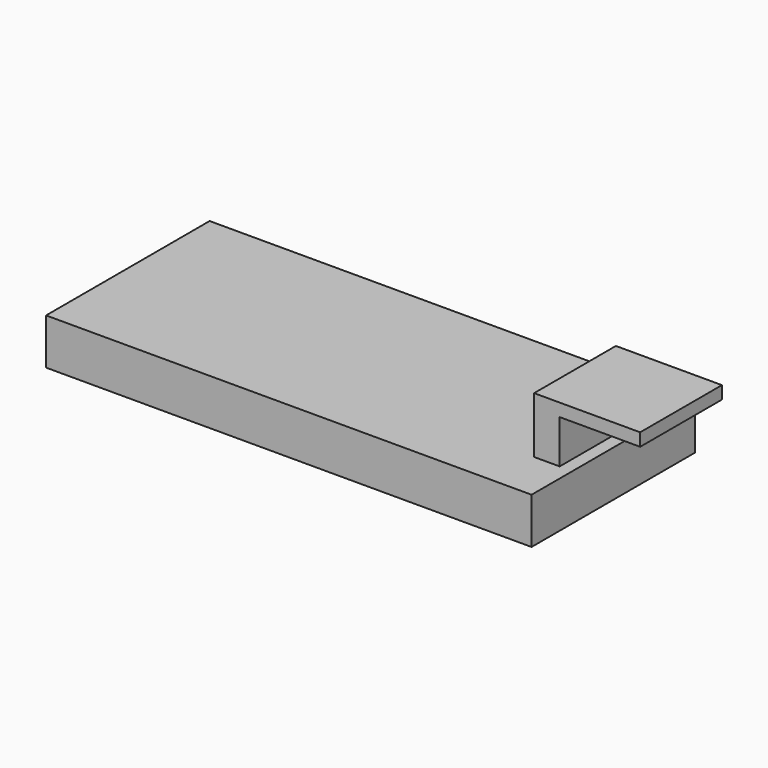
from build123d import *

# Parameters (mm, degrees)
F0_W     = 38
F0_H     = 16
F1_DEPTH = 3.6
F4_DEPTH = 3.4
F7_DEPTH = 1


with BuildPart() as f1:
    # F0 (on Top) → F1 (new body)
    with BuildSketch(Plane.XY):
        with Locations((19, -8)):
            Rectangle(F0_W, F0_H)
    extrude(amount=F1_DEPTH)

    # F3 (on offset) → F4 (join)
    with BuildSketch(Plane.XY.offset(3.6)):
        Polygon((37, -4), (35, -4), (35, -12), (37, -12), (37, -8), align=None)
    extrude(amount=F4_DEPTH)

    # F6 (on offset) → F7 (join)
    with BuildSketch(Plane.XY.offset(7)):
        Polygon((43.3, -12), (43.3, -8), (43.3, -4), (35, -4), (35, -12), align=None)
    extrude(amount=F7_DEPTH)


solid = f1.part
